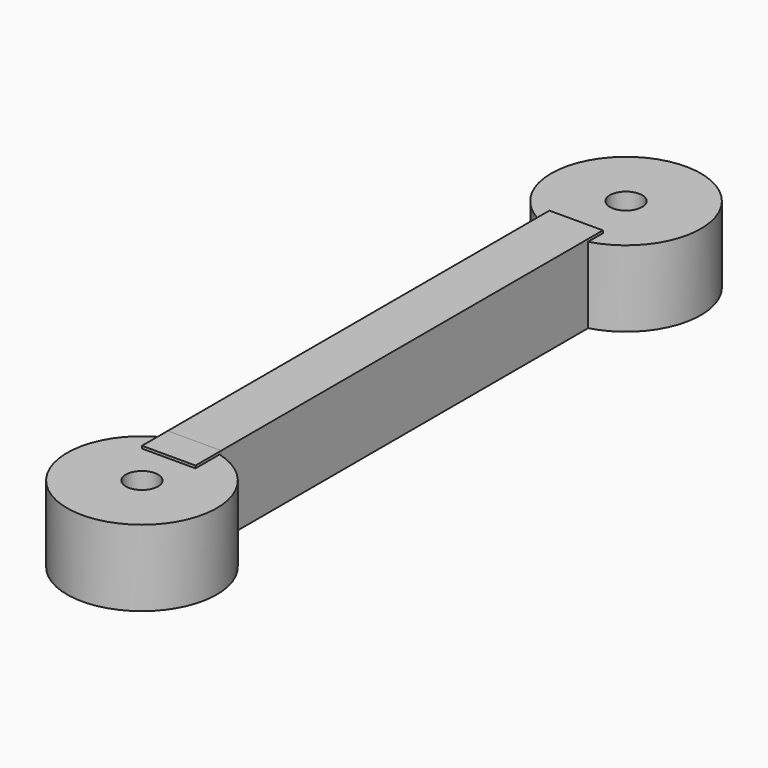
from build123d import *

# Parameters (mm, degrees)
F0_R     = 7.5
F0_R_2   = 1.6129
F1_DEPTH = 7.62
F2_W     = 5.3571020449
F2_H     = 45.72
F3_DEPTH = 7.874
F7_DEPTH = 3.2258
F8_DEPTH = 2.0574


with BuildPart() as f1:
    # F0 (on Top) → F1 (new body)
    with BuildSketch(Plane.XY):
        Circle(F0_R)
        Circle(F0_R_2, mode=Mode.SUBTRACT)
    extrude(amount=F1_DEPTH)


with BuildPart() as f3:
    # F2 (on Top) → F3 (new body)
    with BuildSketch(Plane.XY):
        with Locations((-0.6885244511, -30.2998730913)):
            Rectangle(F2_W, F2_H)
    extrude(amount=F3_DEPTH)

    # F6: F1 across plane
    add(f1.part.mirror(Plane.XZ.offset(30.2998730913)))


with BuildPart() as f7:
    # F7 (new): a face of the model
    f7_faces = [f3.part.faces().sort_by_distance(p)[0] for p in [
        (-1.0470686327, -53.1598730913, 4.0031343413),
    ]]
    extrude(f7_faces, amount=F7_DEPTH)


with BuildPart() as f1_1:
    add(f1.part)

    # F8 (add): a face of the model
    f8_faces = [f3.part.faces().sort_by_distance(p)[0] for p in [
        (-0.6885244511, -7.4398730913, 3.937),
    ]]

    add(f3.part)  # F8 merges F3
    extrude(f8_faces, amount=F8_DEPTH)


solid = Compound([f7.part, f1_1.part])
